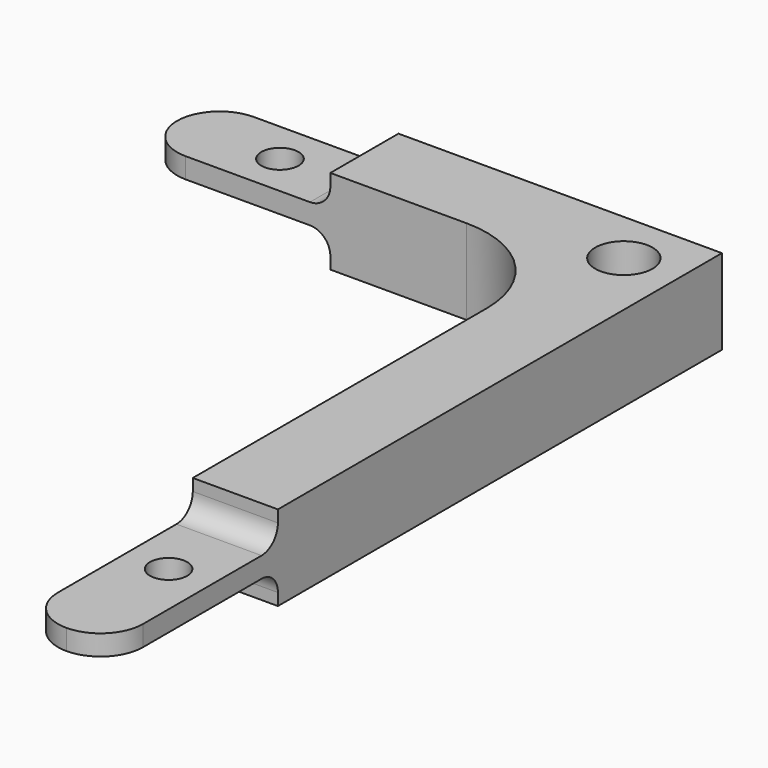
from build123d import *

# Parameters (mm, degrees)
F0_R     = 1.38938
F0_R_2   = 2.13995
F1_DEPTH = 6.35
F2_W     = 17.878901
F2_H     = 3.15336
F2_H_2   = 3.638602
F3_DEPTH = 38.101
F4_W     = 17.966992
F4_H     = 2.413
F5_DEPTH = 57.151
F6_R     = 1.524


with BuildPart() as f1:
    # F0 (on Top) → F1 (new body)
    with BuildSketch(Plane.XY):
        with BuildLine():
            ThreePointArc((-29.464, 0.889), (-28.534064, -1.356064), (-26.289, -2.286))
            Line((-26.289, -2.286), (-5.334, -2.286))
            ThreePointArc((-5.334, -2.286), (0.054154, -4.517846), (2.286, -9.906))
            Line((2.286, -9.906), (2.286, -49.911))
            ThreePointArc((2.286, -49.911), (3.215936, -52.156064), (5.461, -53.086))
            ThreePointArc((5.461, -53.086), (7.706064, -52.156064), (8.636, -49.911))
            Line((8.636, -49.911), (8.636, 4.064))
            Line((8.636, 4.064), (-26.289, 4.064))
            ThreePointArc((-26.289, 4.064), (-28.534064, 3.134064), (-29.464, 0.889))
        make_face()
        with Locations((5.461, -43.561)):
            Circle(F0_R, mode=Mode.SUBTRACT)
        with Locations((-21.7932, 0.889)):
            Circle(F0_R, mode=Mode.SUBTRACT)
        with Locations((4.572, 0)):
            Circle(F0_R_2, mode=Mode.SUBTRACT)
    extrude(amount=F1_DEPTH)

    # F2 (on face) → F3 (cut, through all)
    with BuildSketch(Plane.YZ.offset(8.636)):
        with Locations((-46.277451, 5.51368)):
            Rectangle(F2_W, F2_H)
        with Locations((-46.277451, 0.593699)):
            Rectangle(F2_W, F2_H_2)
    extrude(amount=-F3_DEPTH, mode=Mode.SUBTRACT)

    # F4 (on face) → F5 (cut, through all)
    with BuildSketch(Plane(origin=(0, 4.064, 0), x_dir=(-1, 0, 0), z_dir=(0, 1, 0))):
        with Locations((24.477496, 5.1435)):
            Rectangle(F4_W, F4_H)
        with Locations((24.477496, 1.2065)):
            Rectangle(F4_W, F4_H)
    extrude(amount=-F5_DEPTH, mode=Mode.SUBTRACT)

    # F6
    f6_edges = [f1.edges().sort_by_distance(p)[0] for p in [
        (-15.494, 0.889, 3.937),
        (-15.494, 0.889, 2.413),
        (5.461, -37.338, 3.937),
        (5.461, -37.338, 2.413),
    ]]
    fillet(f6_edges, radius=F6_R)


solid = f1.part
